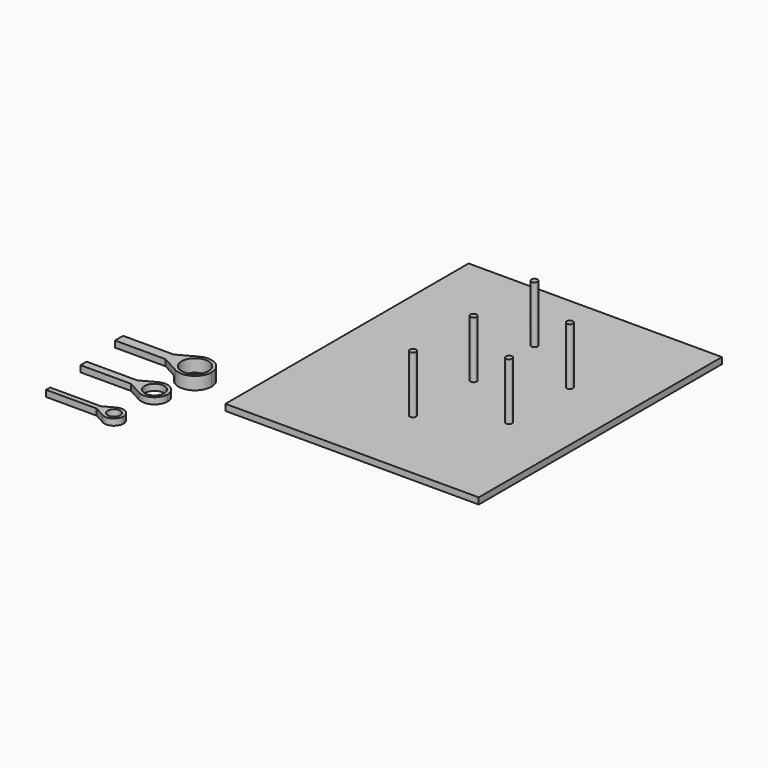
from build123d import *

# Parameters (mm, degrees)
F0_W     = 127
F0_H     = 152.4
F0_R     = 1.5875
F1_DEPTH = 3.175
F2_DEPTH = 28.575
F3_DEPTH = 3.175
F4_DEPTH = 3.175
F5_DEPTH = 3.175
F6_DEPTH = 3.175


with BuildPart() as f1:
    # F0 (on Top) → F1 (new body)
    with BuildSketch(Plane.XY):
        with Locations((63.5, 76.2)):
            Rectangle(F0_W, F0_H)
        with Locations((63.5, 38.1)):
            Circle(F0_R, mode=Mode.SUBTRACT)
        with Locations((30.504432, 57.15)):
            Circle(F0_R, mode=Mode.SUBTRACT)
        with Locations((30.504432, 95.25)):
            Circle(F0_R, mode=Mode.SUBTRACT)
        with Locations((63.5, 76.2)):
            Circle(F0_R, mode=Mode.SUBTRACT)
        with Locations((96.495568, 57.15)):
            Circle(F0_R, mode=Mode.SUBTRACT)
        with Locations((96.495568, 95.25)):
            Circle(F0_R, mode=Mode.SUBTRACT)
        with Locations((63.5, 114.3)):
            Circle(F0_R, mode=Mode.SUBTRACT)
        with Locations((63.5, 114.3)):
            Circle(F0_R)
        with Locations((96.495568, 95.25)):
            Circle(F0_R)
        with Locations((96.495568, 57.15)):
            Circle(F0_R)
        with Locations((63.5, 38.1)):
            Circle(F0_R)
        with Locations((30.504432, 57.15)):
            Circle(F0_R)
        with Locations((30.504432, 95.25)):
            Circle(F0_R)
        with Locations((63.5, 76.2)):
            Circle(F0_R)
    extrude(amount=-F1_DEPTH)

    # F0 (on Top) → F2 (join)
    with BuildSketch(Plane.XY):
        with Locations((63.5, 114.3)):
            Circle(F0_R)
        with Locations((96.495568, 95.25)):
            Circle(F0_R)
        with Locations((63.5, 76.2)):
            Circle(F0_R)
        with Locations((96.495568, 57.15)):
            Circle(F0_R)
        with Locations((63.5, 38.1)):
            Circle(F0_R)
    extrude(amount=F2_DEPTH)


with BuildPart() as f3:
    # F0 (on Top) → F3 (new body)
    with BuildSketch(Plane.XY):
        with BuildLine():
            ThreePointArc((-29.388643, 5.400125), (-21.156304, 5.545387), (-17.0815, 12.7))
            ThreePointArc((-17.0815, 12.7), (-21.156304, 19.854613), (-29.388643, 19.999875))
            ThreePointArc((-29.388643, 19.999875), (-32.554613, 16.943696), (-33.7185, 12.7))
            ThreePointArc((-33.7185, 12.7), (-32.554613, 8.456304), (-29.388643, 5.400125))
        make_face()
        with BuildLine():
            ThreePointArc((-18.669, 12.7), (-25.4, 5.969), (-32.131, 12.7))
            ThreePointArc((-32.131, 12.7), (-25.4, 19.431), (-18.669, 12.7))
        make_face(mode=Mode.SUBTRACT)
        with BuildLine():
            ThreePointArc((-33.7185, 12.7), (-32.554613, 16.943696), (-29.388643, 19.999875))
            Line((-29.388643, 19.999875), (-38.1, 15.24))
            Line((-38.1, 15.24), (-38.1, 12.7))
            Line((-38.1, 12.7), (-33.7185, 12.7))
        make_face()
        with BuildLine():
            Line((-38.1, 10.16), (-29.388643, 5.400125))
            ThreePointArc((-29.388643, 5.400125), (-32.554613, 8.456304), (-33.7185, 12.7))
            Line((-33.7185, 12.7), (-38.1, 12.7))
            Line((-38.1, 12.7), (-38.1, 10.16))
        make_face()
        Polygon((-38.1, 12.7), (-38.1, 15.24), (-63.5, 15.24), (-63.5, 10.16), (-38.1, 10.16), align=None)
    extrude(amount=F3_DEPTH)

    # F0 (on Top) → F4 (join)
    with BuildSketch(Plane.XY):
        with BuildLine():
            ThreePointArc((-29.388643, 5.400125), (-21.156304, 5.545387), (-17.0815, 12.7))
            ThreePointArc((-17.0815, 12.7), (-21.156304, 19.854613), (-29.388643, 19.999875))
            ThreePointArc((-29.388643, 19.999875), (-32.554613, 16.943696), (-33.7185, 12.7))
            ThreePointArc((-33.7185, 12.7), (-32.554613, 8.456304), (-29.388643, 5.400125))
        make_face()
        with BuildLine():
            ThreePointArc((-18.669, 12.7), (-25.4, 5.969), (-32.131, 12.7))
            ThreePointArc((-32.131, 12.7), (-25.4, 19.431), (-18.669, 12.7))
        make_face(mode=Mode.SUBTRACT)
    extrude(amount=-F4_DEPTH)


with BuildPart() as f5:
    # F0 (on Top) → F5 (new body)
    with BuildSketch(Plane.XY):
        with BuildLine():
            ThreePointArc((-28.534063, -18.440713), (-22.062351, -18.324788), (-18.8595, -12.7))
            ThreePointArc((-18.8595, -12.7), (-22.062351, -7.075212), (-28.534063, -6.959287))
            ThreePointArc((-28.534063, -6.959287), (-31.024788, -9.362351), (-31.9405, -12.7))
            ThreePointArc((-31.9405, -12.7), (-31.024788, -16.037649), (-28.534063, -18.440713))
        make_face()
        with BuildLine():
            ThreePointArc((-20.447, -12.7), (-25.4, -17.653), (-30.353, -12.7))
            ThreePointArc((-30.353, -12.7), (-25.4, -7.747), (-20.447, -12.7))
        make_face(mode=Mode.SUBTRACT)
        with BuildLine():
            Line((-35.56, -14.605), (-28.534063, -18.440713))
            ThreePointArc((-28.534063, -18.440713), (-31.024788, -16.037649), (-31.9405, -12.7))
            Line((-31.9405, -12.7), (-35.56, -12.7))
            Line((-35.56, -12.7), (-35.56, -14.605))
        make_face()
        with BuildLine():
            ThreePointArc((-31.9405, -12.7), (-31.024788, -9.362351), (-28.534063, -6.959287))
            Line((-28.534063, -6.959287), (-35.56, -10.795))
            Line((-35.56, -10.795), (-35.56, -12.7))
            Line((-35.56, -12.7), (-31.9405, -12.7))
        make_face()
        Polygon((-35.56, -12.7), (-35.56, -10.795), (-60.96, -10.795), (-60.96, -14.605), (-35.56, -14.605), align=None)
    extrude(amount=F5_DEPTH)


with BuildPart() as f6:
    # F0 (on Top) → F6 (new body)
    with BuildSketch(Plane.XY):
        with BuildLine():
            ThreePointArc((-27.679653, -42.281458), (-22.968482, -42.195012), (-20.6375, -38.1))
            ThreePointArc((-20.6375, -38.1), (-22.968482, -34.004988), (-27.679653, -33.918542))
            ThreePointArc((-27.679653, -33.918542), (-29.495012, -35.668482), (-30.1625, -38.1))
            ThreePointArc((-30.1625, -38.1), (-29.495012, -40.531518), (-27.679653, -42.281458))
        make_face()
        with BuildLine():
            ThreePointArc((-22.225, -38.1), (-25.4, -41.275), (-28.575, -38.1))
            ThreePointArc((-28.575, -38.1), (-25.4, -34.925), (-22.225, -38.1))
        make_face(mode=Mode.SUBTRACT)
        with BuildLine():
            ThreePointArc((-30.1625, -38.1), (-29.495012, -35.668482), (-27.679653, -33.918542))
            Line((-27.679653, -33.918542), (-33.02, -36.83))
            Line((-33.02, -36.83), (-33.02, -38.1))
            Line((-33.02, -38.1), (-30.1625, -38.1))
        make_face()
        with BuildLine():
            Line((-33.02, -39.37), (-27.679653, -42.281458))
            ThreePointArc((-27.679653, -42.281458), (-29.495012, -40.531518), (-30.1625, -38.1))
            Line((-30.1625, -38.1), (-33.02, -38.1))
            Line((-33.02, -38.1), (-33.02, -39.37))
        make_face()
        Polygon((-33.02, -38.1), (-33.02, -36.83), (-58.42, -36.83), (-58.42, -39.37), (-33.02, -39.37), align=None)
    extrude(amount=F6_DEPTH)


solid = Compound([f1.part, f3.part, f5.part, f6.part])
